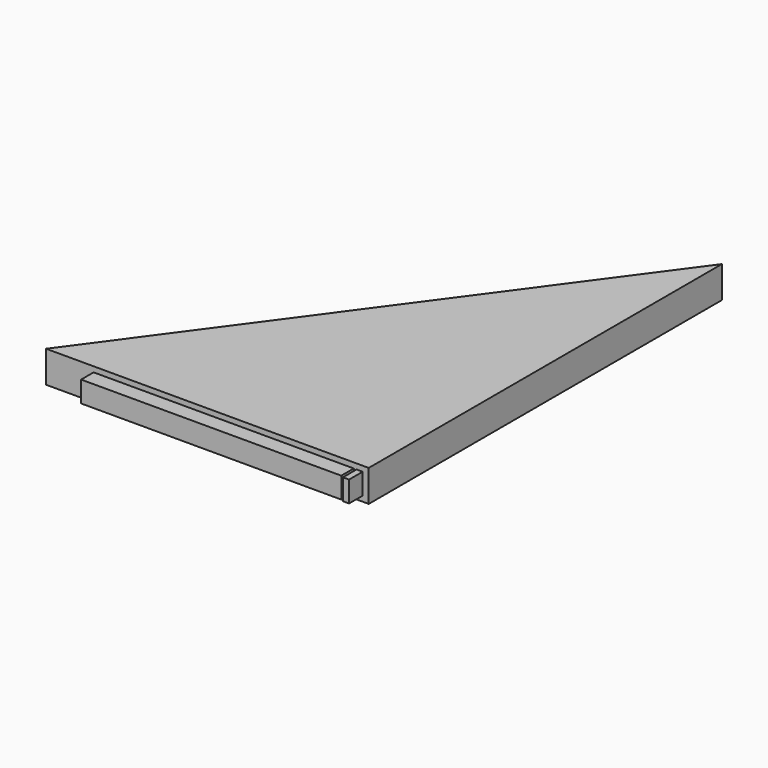
from build123d import *

# Parameters (mm, degrees)
F1_DEPTH = 11.8618
F2_W     = 97.282
F2_H     = 7.874
F3_DEPTH = 5.842
F4_W     = 2.286
F4_H     = 7.874
F5_DEPTH = 6.35


with BuildPart() as f1:
    # F0 (on Top) → F1 (new body)
    with BuildSketch(Plane.XY):
        Polygon((-120.65, 0), (0, 0), (0, 165.1), align=None)
    extrude(amount=F1_DEPTH)

    # F2 (on face) → F3 (join)
    with BuildSketch(Plane.XZ):
        with Locations((-54.229, 5.9309)):
            Rectangle(F2_W, F2_H)
    extrude(amount=F3_DEPTH)

    # F4 (on face) → F5 (join)
    with BuildSketch(Plane.XZ):
        with Locations((-3.41022, 5.9309)):
            Rectangle(F4_W, F4_H)
    extrude(amount=F5_DEPTH)


solid = f1.part
